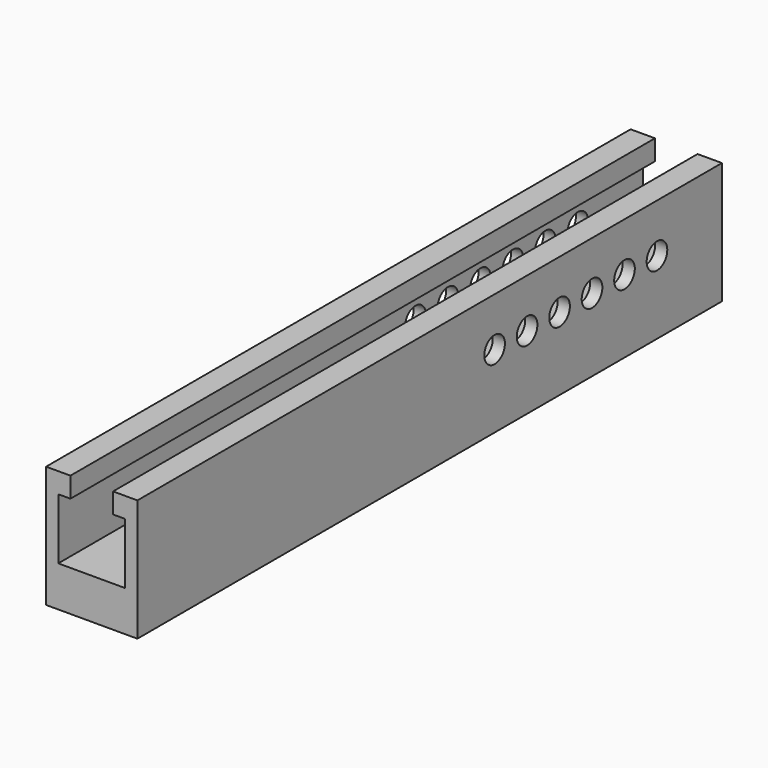
from build123d import *

# Parameters (mm, degrees)
F1_DEPTH       = 90
F3_D           = 6.7564
F3_CBORE_D     = 10
F3_CBORE_DEPTH = 6.35
F4_R           = 3.175
F5_DEPTH       = 25
F7_D           = 6.7564
F7_CBORE_D     = 10
F7_CBORE_DEPTH = 6.35


with BuildPart() as f1:
    # F0 (on Front) → F1 (new body, symmetric)
    with BuildSketch(Plane.XZ):
        Polygon((-11.25, -10), (0, -10), (11.25, -10), (11.25, 20), (5.25, 20), (5.25, 15), (8.25, 15), (8.25, 0), (5.25, 0), (0, 0), (-5.25, 0), (-8.25, 0), (-8.25, 15), (-5.25, 15), (-5.25, 20), (-11.25, 20), align=None)
    extrude(amount=F1_DEPTH, both=True)

    # F3 (through all)
    with Locations(Plane.XY):
        with Locations((0, 0)):
            CounterBoreHole(F3_D / 2, F3_CBORE_D / 2, F3_CBORE_DEPTH)

    # F4 (on face) → F5 (cut)
    with BuildSketch(Plane.YZ.offset(11.25)):
        with Locations((40, 8)):
            Circle(F4_R)
        with Locations((50, 8)):
            Circle(F4_R)
        with Locations((60, 8)):
            Circle(F4_R)
        with Locations((30, 8)):
            Circle(F4_R)
        with Locations((20, 8)):
            Circle(F4_R)
        with Locations((70, 8)):
            Circle(F4_R)
    extrude(amount=-F5_DEPTH, mode=Mode.SUBTRACT)

    # F7 (through all)
    with Locations(Plane.XY):
        with Locations((0, -25.4)):
            CounterBoreHole(F7_D / 2, F7_CBORE_D / 2, F7_CBORE_DEPTH)


solid = f1.part
